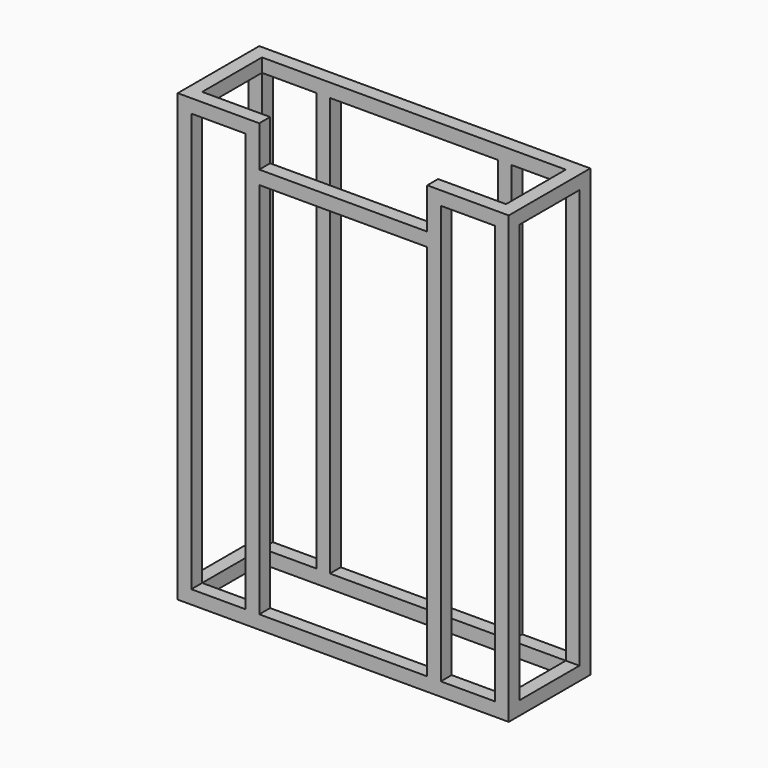
from build123d import *

# Parameters (mm, degrees)
F0_W      = 618.75
F0_H      = 833.4375
F1_DEPTH  = 190.5
F2_W      = 567.95
F2_H      = 139.7
F3_DEPTH  = 833.4385
F4_W      = 567.95
F4_H      = 782.6375
F5_DEPTH  = 190.501
F6_W      = 139.7
F6_H      = 782.6375
F7_DEPTH  = 618.751
F8_W      = 25.4
F8_H      = 25.4
F9_DEPTH  = 787.4
F10_W     = 25.4
F10_H     = 25.4
F11_DEPTH = 787.4
F12_W     = 25.4
F12_H     = 25.4
F13_DEPTH = 787.4
F14_W     = 25.4
F14_H     = 25.4
F15_DEPTH = 787.4
F16_W     = 25.4
F16_H     = 25.4
F17_DEPTH = 313.95
F18_W     = 313.95
F18_H     = 25.4
F19_DEPTH = 25.4


with BuildPart() as f1:
    # F0 (on Front) → F1 (new body)
    with BuildSketch(Plane.XZ):
        with Locations((-19.982701, 279.260447)):
            Rectangle(F0_W, F0_H)
    extrude(amount=F1_DEPTH)

    # F2 (on face) → F3 (cut, through all)
    with BuildSketch(Plane.XY.offset(695.979197)):
        with Locations((-19.982701, -95.25)):
            Rectangle(F2_W, F2_H)
    extrude(amount=-F3_DEPTH, mode=Mode.SUBTRACT)

    # F4 (on face) → F5 (cut, through all)
    with BuildSketch(Plane(origin=(0, 0, 0), x_dir=(-1, 0, 0), z_dir=(0, 1, 0))):
        with Locations((19.982701, 279.260447)):
            Rectangle(F4_W, F4_H)
    extrude(amount=-F5_DEPTH, mode=Mode.SUBTRACT)

    # F6 (on face) → F7 (cut, through all)
    with BuildSketch(Plane.YZ.offset(289.392299)):
        with Locations((-95.25, 279.260447)):
            Rectangle(F6_W, F6_H)
    extrude(amount=-F7_DEPTH, mode=Mode.SUBTRACT)

    # F8 (on face) → F9 (join)
    with BuildSketch(Plane(origin=(0, 0, 670.579197), x_dir=(1, 0, 0), z_dir=(0, 0, -1))):
        with Locations((149.692299, 177.8)):
            Rectangle(F8_W, F8_H)
    extrude(amount=F9_DEPTH)

    # F10 (on face) → F11 (join)
    with BuildSketch(Plane(origin=(0, 0, 670.579197), x_dir=(1, 0, 0), z_dir=(0, 0, -1))):
        with Locations((-189.657701, 177.8)):
            Rectangle(F10_W, F10_H)
    extrude(amount=F11_DEPTH)

    # F12 (on face) → F13 (join)
    with BuildSketch(Plane(origin=(0, 0, 670.579197), x_dir=(1, 0, 0), z_dir=(0, 0, -1))):
        with Locations((-189.657701, 12.7)):
            Rectangle(F12_W, F12_H)
    extrude(amount=F13_DEPTH)

    # F14 (on face) → F15 (join)
    with BuildSketch(Plane(origin=(0, 0, 670.579197), x_dir=(1, 0, 0), z_dir=(0, 0, -1))):
        with Locations((149.692299, 12.7)):
            Rectangle(F14_W, F14_H)
    extrude(amount=F15_DEPTH)

    # F16 (on face) → F17 (join, through all)
    with BuildSketch(Plane.YZ.offset(-176.957701)):
        with Locations((-177.8, 607.079197)):
            Rectangle(F16_W, F16_H)
    extrude(amount=F17_DEPTH)

    # F18 (on face) → F19 (cut, through all)
    with BuildSketch(Plane.XZ.offset(190.5)):
        with Locations((-19.982701, 683.279197)):
            Rectangle(F18_W, F18_H)
    extrude(amount=-F19_DEPTH, mode=Mode.SUBTRACT)


solid = f1.part
